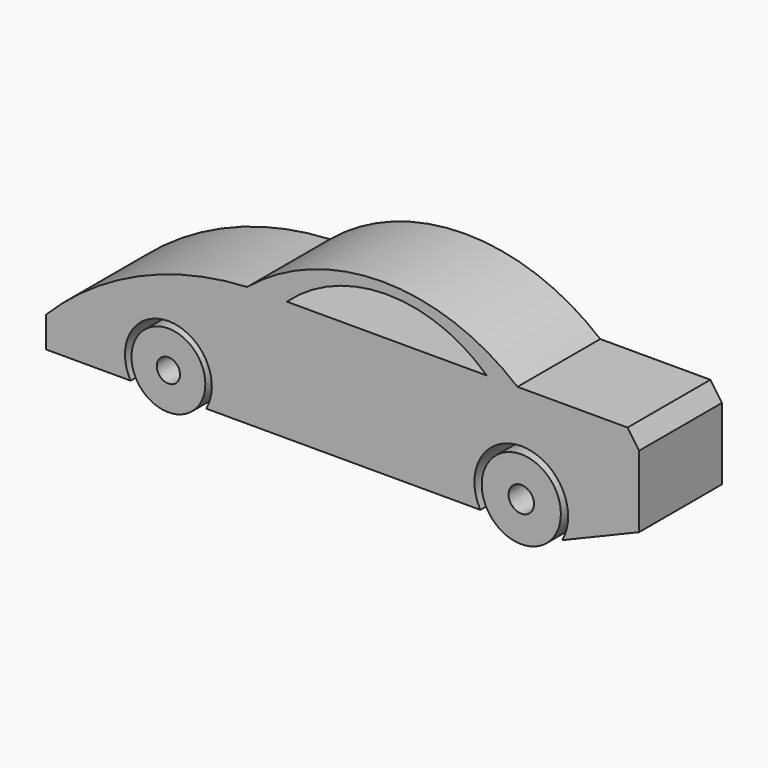
from build123d import *

# Parameters (mm, degrees)
F0_R     = 9.065869
F0_R_2   = 2.852444
F0_R_3   = 9.717542
F0_R_4   = 3.116951
F1_DEPTH = 25.4


with BuildPart() as f1:
    # F0 (on Front) → F1 (new body)
    with BuildSketch(Plane.XZ):
        with BuildLine():
            ThreePointArc((-51.730402, -29.551826), (-42.456158, -13.654089), (-33.181913, -29.551826))
            Line((-33.181913, -29.551826), (34.095649, -29.551826))
            ThreePointArc((34.095649, -29.551826), (44.155849, -12.484857), (54.21605, -29.551826))
            Line((54.21605, -29.551826), (73.078915, -21.692298))
            Line((73.078915, -21.692298), (73.078915, -8.802672))
            Line((73.078915, -8.802672), (73.078915, -4.086955))
            Line((73.078915, -4.086955), (70.249483, 0))
            Line((70.249483, 0), (51.386617, 0))
            Line((51.386617, 0), (43.212704, 0))
            ThreePointArc((43.212704, 0), (10.045495, 11.97074), (-23.121715, 0))
            ThreePointArc((-23.121715, 0), (-49.8602, -6.384029), (-72.479554, -22.006681))
            Line((-72.479554, -22.006681), (-72.479554, -29.551826))
            Line((-72.479554, -29.551826), (-51.730402, -29.551826))
        make_face()
        with BuildLine():
            ThreePointArc((-13.3759, 0), (11.145829, 9.557363), (35.667557, 0))
            Line((35.667557, 0), (-13.3759, 0))
        make_face(mode=Mode.SUBTRACT)
        with Locations((-42.456158, -24.30811)):
            Circle(F0_R)
        with Locations((-42.456158, -24.30811)):
            Circle(F0_R_2, mode=Mode.SUBTRACT)
        with Locations((44.155849, -23.983356)):
            Circle(F0_R_3)
        with Locations((44.155849, -23.983356)):
            Circle(F0_R_4, mode=Mode.SUBTRACT)
    extrude(amount=F1_DEPTH)


solid = f1.part
